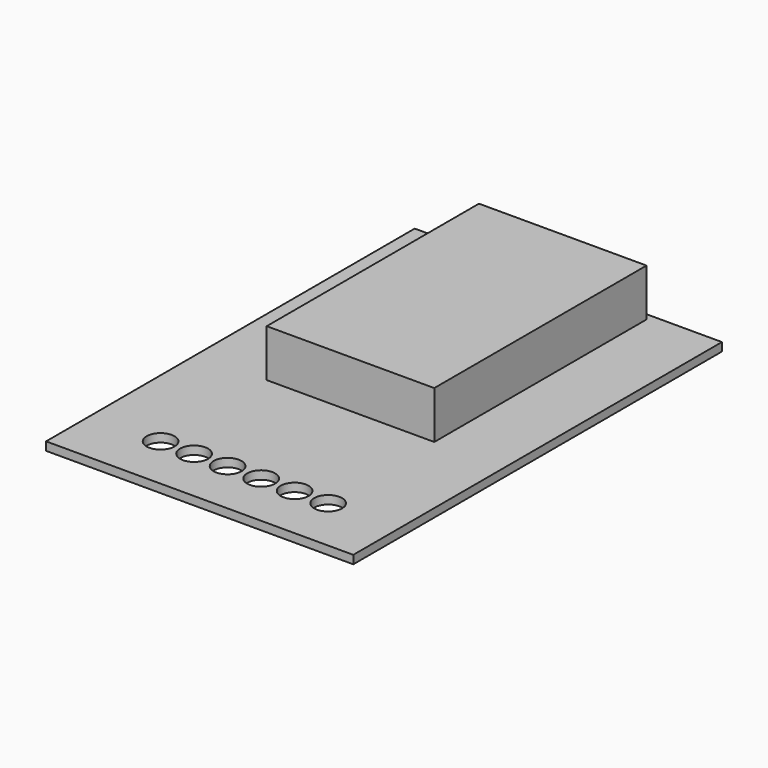
from build123d import *

# Parameters (mm, degrees)
F0_R     = 1
F1_DEPTH = 0.6
F2_W     = 12
F2_H     = 19
F3_DEPTH = 3.4


with BuildPart() as f1:
    # F0 (on Top) → F1 (new body)
    with BuildSketch(Plane.XY):
        Polygon((-11, 0), (0, 0), (11, 0), (11, 33), (0, 33), (-11, 33), align=None)
        with Locations((-6, 4)):
            Circle(F0_R, mode=Mode.SUBTRACT)
        with Locations((-3.6, 4)):
            Circle(F0_R, mode=Mode.SUBTRACT)
        with Locations((-1.2, 4)):
            Circle(F0_R, mode=Mode.SUBTRACT)
        with Locations((1.2, 4)):
            Circle(F0_R, mode=Mode.SUBTRACT)
        with Locations((3.6, 4)):
            Circle(F0_R, mode=Mode.SUBTRACT)
        with Locations((6, 4)):
            Circle(F0_R, mode=Mode.SUBTRACT)
    extrude(amount=F1_DEPTH)

    # F2 (on face) → F3 (join)
    with BuildSketch(Plane.XY.offset(0.6)):
        with Locations((0, 23)):
            Rectangle(F2_W, F2_H)
    extrude(amount=F3_DEPTH)


solid = f1.part
